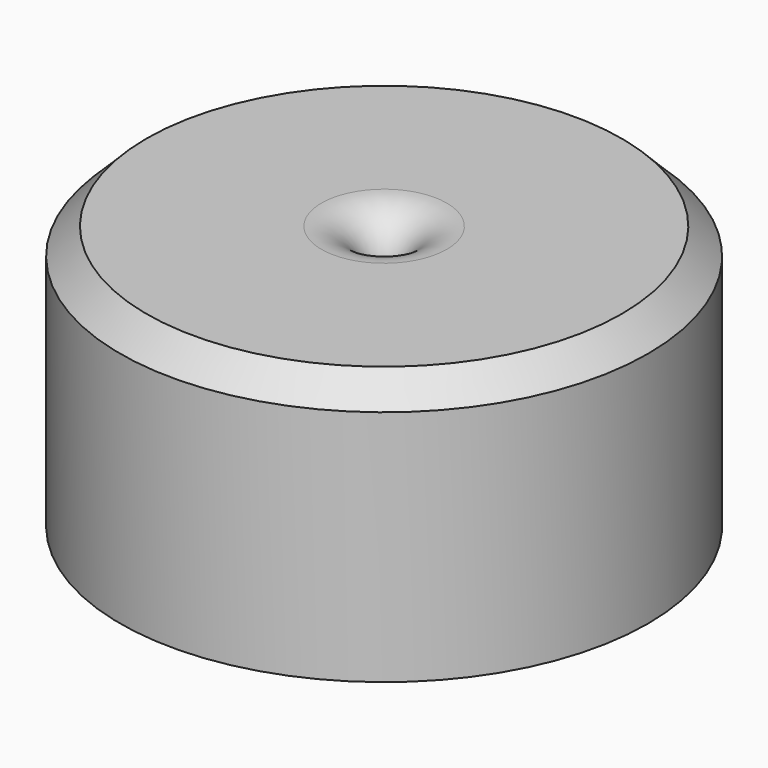
from build123d import *

# Parameters (mm, degrees)
F0_R     = 25.4
F0_R_2   = 1.5875
F1_DEPTH = 25.4
F2_SIZE  = 2.54
F3_R     = 4.445


with BuildPart() as f1:
    # F0 (on Top) → F1 (new body)
    with BuildSketch(Plane.XY):
        Circle(F0_R)
        Circle(F0_R_2, mode=Mode.SUBTRACT)
    extrude(amount=F1_DEPTH)

    # F2
    f2_edges = [f1.edges().sort_by_distance(p)[0] for p in [
        (-25.4, 0, 25.4),
    ]]
    chamfer(f2_edges, length=F2_SIZE)

    # F3
    f3_edges = [f1.edges().sort_by_distance(p)[0] for p in [
        (-1.5875, 0, 25.4),
    ]]
    fillet(f3_edges, radius=F3_R)


solid = f1.part
